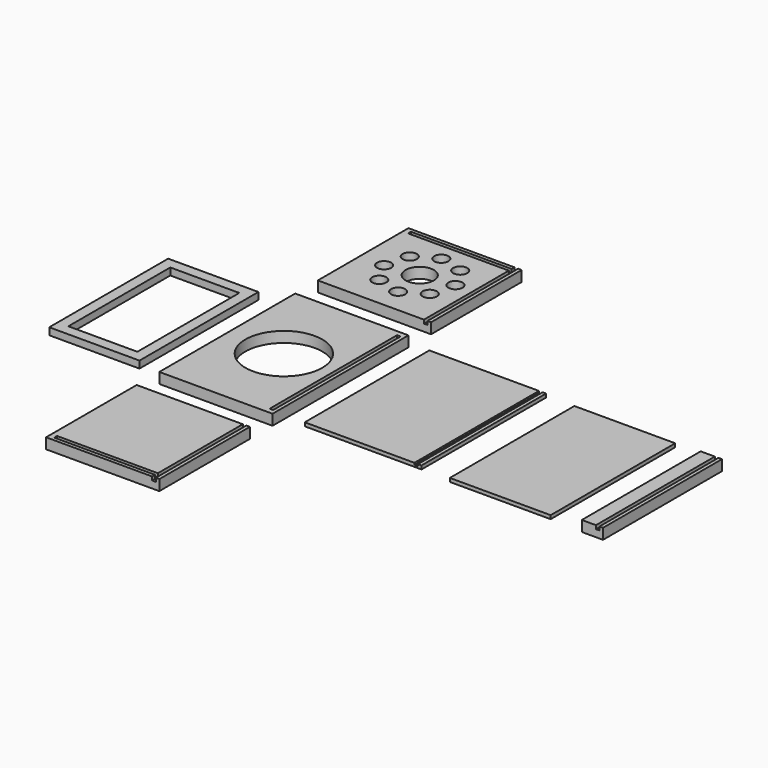
from build123d import *

# Parameters (mm, degrees)
F0_W      = 203.2
F0_H      = 304.8
F0_R      = 69
F0_W_2    = 6.4008
F0_H_2    = 285.75
F1_DEPTH  = 12.7
F2_DEPTH  = 6.35
F3_W      = 6.35
F3_H      = 203.2
F3_W_2    = 180.9242
F3_H_2    = 6.4008
F3_W_3    = 2.6920977338
F4_DEPTH  = 12.7
F5_DEPTH  = 6.35
F6_W      = 6.35
F6_H      = 203.2
F6_R      = 12.7
F6_R_2    = 25.4
F6_W_2    = 180.9242
F6_H_2    = 6.4008
F6_W_3    = 3.0305701597
F7_DEPTH  = 12.7
F8_DEPTH  = 6.35
F9_W      = 6.35
F9_H      = 279.4
F9_W_2    = 6.4008
F9_W_3    = 196.7992
F10_DEPTH = 3.2
F11_W     = 161.925
F11_H     = 266.7
F11_W_2   = 123.825
F11_H_2   = 228.6
F12_DEPTH = 12.7
F13_DEPTH = 3.2
F14_W     = 180.95000005
F14_H     = 279.4
F15_DEPTH = 6.4008
F16_W     = 25.3492
F16_H     = 266.7
F16_W_2   = 6.4008
F16_W_3   = 6.35
F17_DEPTH = 12.7
F18_DEPTH = 6.35


with BuildPart() as f1:
    # F0 (on Top) → F1 (new body)
    with BuildSketch(Plane.XY):
        Rectangle(F0_W, F0_H)
        Circle(F0_R, mode=Mode.SUBTRACT)
        with Locations((92.0496, 0)):
            Rectangle(F0_W_2, F0_H_2, mode=Mode.SUBTRACT)
        Rectangle(F0_W, F0_H)
        Circle(F0_R, mode=Mode.SUBTRACT)
        with Locations((92.0496, 0)):
            Rectangle(F0_W_2, F0_H_2, mode=Mode.SUBTRACT)
        with Locations((92.0496, 0)):
            Rectangle(F0_W_2, F0_H_2)
    extrude(amount=-F1_DEPTH)

    # F0 (on Top) → F2 (join)
    with BuildSketch(Plane.XY):
        Rectangle(F0_W, F0_H)
        Circle(F0_R, mode=Mode.SUBTRACT)
        with Locations((92.0496, 0)):
            Rectangle(F0_W_2, F0_H_2, mode=Mode.SUBTRACT)
        Rectangle(F0_W, F0_H)
        Circle(F0_R, mode=Mode.SUBTRACT)
        with Locations((92.0496, 0)):
            Rectangle(F0_W_2, F0_H_2, mode=Mode.SUBTRACT)
    extrude(amount=F2_DEPTH)


with BuildPart() as f4:
    # F3 (on Top) → F4 (new body)
    with BuildSketch(Plane.XY):
        with Locations((98.425, -304.8)):
            Rectangle(F3_W, F3_H)
        Polygon((88.8492, -406.4), (95.25, -406.4), (95.25, -203.2), (88.8492, -203.2), (88.8492, -393.6492), (91.5412977338, -393.6492), (91.5412977338, -400.05), (88.8492, -400.05), align=None)
        Polygon((-101.6, -406.4), (88.8492, -406.4), (88.8492, -400.05), (-92.075, -400.05), (-92.075, -393.6492), (88.8492, -393.6492), (88.8492, -203.2), (-101.6, -203.2), align=None)
        Polygon((-101.6, -406.4), (88.8492, -406.4), (88.8492, -400.05), (-92.075, -400.05), (-92.075, -393.6492), (88.8492, -393.6492), (88.8492, -203.2), (-101.6, -203.2), align=None)
        Polygon((88.8492, -406.4), (95.25, -406.4), (95.25, -203.2), (88.8492, -203.2), (88.8492, -393.6492), (91.5412977338, -393.6492), (91.5412977338, -400.05), (88.8492, -400.05), align=None)
        with Locations((-1.6129, -396.8496)):
            Rectangle(F3_W_2, F3_H_2)
        with Locations((90.1952488669, -396.8496)):
            Rectangle(F3_W_3, F3_H_2)
    extrude(amount=-F4_DEPTH)

    # F3 (on Top) → F5 (join)
    with BuildSketch(Plane.XY):
        Polygon((-101.6, -406.4), (88.8492, -406.4), (88.8492, -400.05), (-92.075, -400.05), (-92.075, -393.6492), (88.8492, -393.6492), (88.8492, -203.2), (-101.6, -203.2), align=None)
        with Locations((98.425, -304.8)):
            Rectangle(F3_W, F3_H)
    extrude(amount=F5_DEPTH)


with BuildPart() as f7:
    # F6 (on Top) → F7 (new body)
    with BuildSketch(Plane.XY):
        with Locations((98.425, 304.8)):
            Rectangle(F6_W, F6_H)
        Polygon((88.8492, 203.2), (95.25, 203.2), (95.25, 406.4), (88.8492, 406.4), (88.8492, 400.05), (91.8797701597, 400.05), (91.8797701597, 393.6492), (88.8492, 393.6492), align=None)
        Polygon((-101.6, 203.2), (88.8492, 203.2), (88.8492, 393.6492), (-92.075, 393.6492), (-92.075, 400.05), (88.8492, 400.05), (88.8492, 406.4), (-101.6, 406.4), align=None)
        with Locations((-57.9158084915, 297.1413103751)):
            Circle(F6_R, mode=Mode.SUBTRACT)
        with Locations((-35.5371495535, 258.431827709)):
            Circle(F6_R, mode=Mode.SUBTRACT)
        with Locations((7.6586896249, 246.8841915085)):
            Circle(F6_R, mode=Mode.SUBTRACT)
        with Locations((46.368172291, 269.2628504465)):
            Circle(F6_R, mode=Mode.SUBTRACT)
        with Locations((0, 304.8)):
            Circle(F6_R_2, mode=Mode.SUBTRACT)
        with Locations((-46.368172291, 340.3371495535)):
            Circle(F6_R, mode=Mode.SUBTRACT)
        with Locations((-7.6586896249, 362.7158084915)):
            Circle(F6_R, mode=Mode.SUBTRACT)
        with Locations((35.5371495535, 351.168172291)):
            Circle(F6_R, mode=Mode.SUBTRACT)
        with Locations((57.9158084915, 312.4586896249)):
            Circle(F6_R, mode=Mode.SUBTRACT)
        with Locations((-1.6129, 396.8496)):
            Rectangle(F6_W_2, F6_H_2)
        Polygon((-101.6, 203.2), (88.8492, 203.2), (88.8492, 393.6492), (-92.075, 393.6492), (-92.075, 400.05), (88.8492, 400.05), (88.8492, 406.4), (-101.6, 406.4), align=None)
        with Locations((-57.9158084915, 297.1413103751)):
            Circle(F6_R, mode=Mode.SUBTRACT)
        with Locations((-35.5371495535, 258.431827709)):
            Circle(F6_R, mode=Mode.SUBTRACT)
        with Locations((7.6586896249, 246.8841915085)):
            Circle(F6_R, mode=Mode.SUBTRACT)
        with Locations((46.368172291, 269.2628504465)):
            Circle(F6_R, mode=Mode.SUBTRACT)
        with Locations((0, 304.8)):
            Circle(F6_R_2, mode=Mode.SUBTRACT)
        with Locations((-46.368172291, 340.3371495535)):
            Circle(F6_R, mode=Mode.SUBTRACT)
        with Locations((-7.6586896249, 362.7158084915)):
            Circle(F6_R, mode=Mode.SUBTRACT)
        with Locations((35.5371495535, 351.168172291)):
            Circle(F6_R, mode=Mode.SUBTRACT)
        with Locations((57.9158084915, 312.4586896249)):
            Circle(F6_R, mode=Mode.SUBTRACT)
        Polygon((88.8492, 203.2), (95.25, 203.2), (95.25, 406.4), (88.8492, 406.4), (88.8492, 400.05), (91.8797701597, 400.05), (91.8797701597, 393.6492), (88.8492, 393.6492), align=None)
        with Locations((90.3644850799, 396.8496)):
            Rectangle(F6_W_3, F6_H_2)
    extrude(amount=-F7_DEPTH)

    # F6 (on Top) → F8 (join)
    with BuildSketch(Plane.XY):
        Polygon((-101.6, 203.2), (88.8492, 203.2), (88.8492, 393.6492), (-92.075, 393.6492), (-92.075, 400.05), (88.8492, 400.05), (88.8492, 406.4), (-101.6, 406.4), align=None)
        with Locations((-57.9158084915, 297.1413103751)):
            Circle(F6_R, mode=Mode.SUBTRACT)
        with Locations((-35.5371495535, 258.431827709)):
            Circle(F6_R, mode=Mode.SUBTRACT)
        with Locations((7.6586896249, 246.8841915085)):
            Circle(F6_R, mode=Mode.SUBTRACT)
        with Locations((46.368172291, 269.2628504465)):
            Circle(F6_R, mode=Mode.SUBTRACT)
        with Locations((0, 304.8)):
            Circle(F6_R_2, mode=Mode.SUBTRACT)
        with Locations((-46.368172291, 340.3371495535)):
            Circle(F6_R, mode=Mode.SUBTRACT)
        with Locations((-7.6586896249, 362.7158084915)):
            Circle(F6_R, mode=Mode.SUBTRACT)
        with Locations((35.5371495535, 351.168172291)):
            Circle(F6_R, mode=Mode.SUBTRACT)
        with Locations((57.9158084915, 312.4586896249)):
            Circle(F6_R, mode=Mode.SUBTRACT)
        with Locations((98.425, 304.8)):
            Rectangle(F6_W, F6_H)
    extrude(amount=F8_DEPTH)


with BuildPart() as f10:
    # F9 (on Top) → F10 (new body)
    with BuildSketch(Plane.XY):
        with Locations((355.6214746066, 0)):
            Rectangle(F9_W, F9_H)
        with Locations((349.2460746066, 0)):
            Rectangle(F9_W_2, F9_H)
        with Locations((247.6460746066, 0)):
            Rectangle(F9_W_3, F9_H)
    extrude(amount=-F10_DEPTH)

    # F9 (on Top) → F13 (join)
    with BuildSketch(Plane.XY):
        with Locations((247.6460746066, 0)):
            Rectangle(F9_W_3, F9_H)
        with Locations((355.6214746066, 0)):
            Rectangle(F9_W, F9_H)
    extrude(amount=F13_DEPTH)


with BuildPart() as f12:
    # F11 (on Top) → F12 (new body)
    with BuildSketch(Plane.XY):
        with Locations((-233.3625, 0)):
            Rectangle(F11_W, F11_H)
        with Locations((-233.3625, 0)):
            Rectangle(F11_W_2, F11_H_2, mode=Mode.SUBTRACT)
    extrude(amount=-F12_DEPTH)


with BuildPart() as f15:
    # F14 (on Top) → F15 (new body)
    with BuildSketch(Plane.XY):
        with Locations((500.0714746316, 0)):
            Rectangle(F14_W, F14_H)
    extrude(amount=-F15_DEPTH)


with BuildPart() as f17:
    # F16 (on face) → F17 (new body)
    with BuildSketch(Plane.XY):
        with Locations((654.0210746566, 0)):
            Rectangle(F16_W, F16_H)
        with Locations((669.8960746566, 0)):
            Rectangle(F16_W_2, F16_H)
        with Locations((676.2714746566, 0)):
            Rectangle(F16_W_3, F16_H)
    extrude(amount=-F17_DEPTH)

    # F16 (on face) → F18 (join)
    with BuildSketch(Plane.XY):
        with Locations((654.0210746566, 0)):
            Rectangle(F16_W, F16_H)
        with Locations((676.2714746566, 0)):
            Rectangle(F16_W_3, F16_H)
    extrude(amount=F18_DEPTH)


solid = Compound([f1.part, f4.part, f7.part, f10.part, f12.part, f15.part, f17.part])
